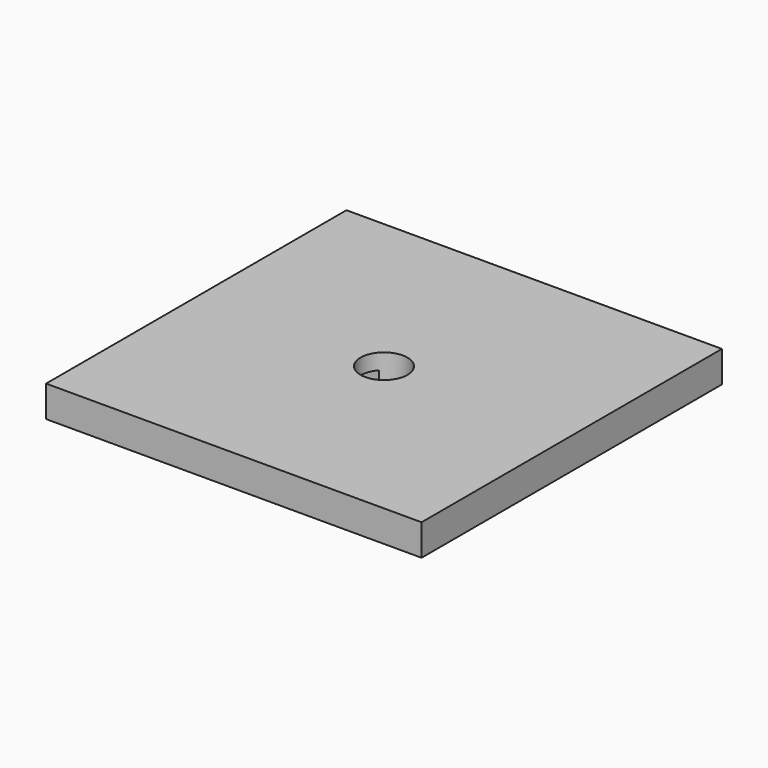
from build123d import *

# Parameters (mm, degrees)
F0_W     = 152.4
F0_H     = 152.4
F0_R     = 9.525
F1_DEPTH = 12.7
F2_W     = 12.7
F2_H     = 6.35
F3_DEPTH = 76.201


with BuildPart() as f1:
    # F0 (on Top) → F1 (new body)
    with BuildSketch(Plane.XY):
        Rectangle(F0_W, F0_H)
        Circle(F0_R, mode=Mode.SUBTRACT)
    extrude(amount=-F1_DEPTH)

    # F2 (on Right) → F3 (cut, through all)
    with BuildSketch(Plane.YZ):
        with Locations((0, -9.525)):
            Rectangle(F2_W, F2_H)
    extrude(amount=-F3_DEPTH, mode=Mode.SUBTRACT)


solid = f1.part
